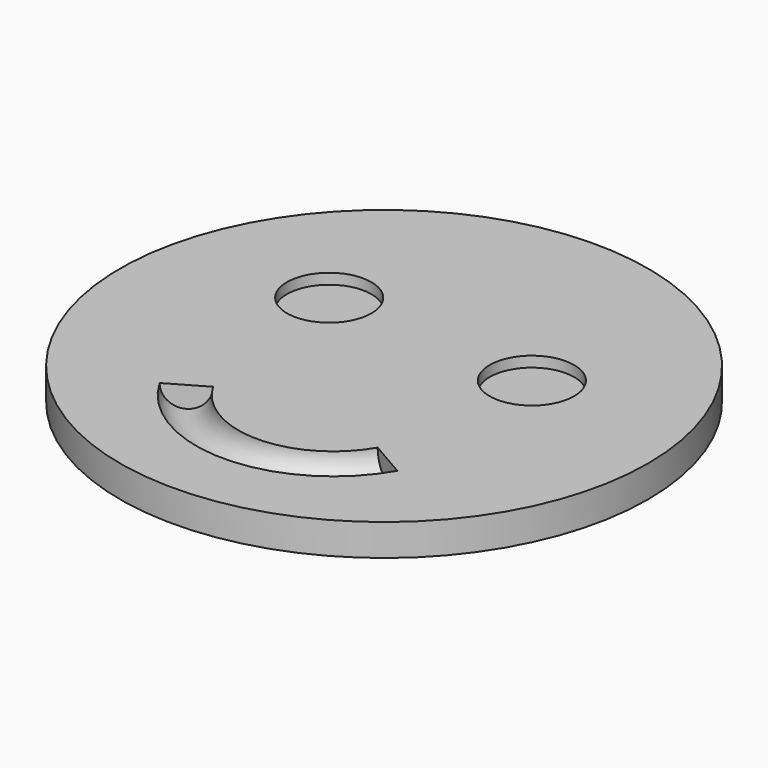
from build123d import *

# Parameters (mm, degrees)
TORUS_R               = 2
TORUS_ANGLE           = 120
TORUS_PLACEMENT_ANGLE = 150
CYLINDER002_R         = 4
CYLINDER002_DEPTH     = 4
CYLINDER001_R         = 4
CYLINDER001_DEPTH     = 4
CYLINDER_R            = 25
CYLINDER_DEPTH        = 3


with BuildPart() as torus:
    # Torus → Torus (revolve)
    with BuildSketch(Plane.XZ):
        with Locations((11, 0)):
            Circle(TORUS_R)
    revolve(axis=Axis((0, 0, 0), (0, 0, 1)), revolution_arc=TORUS_ANGLE)


with BuildPart() as torus_1:
    # Torus placement: moved
    add(torus.part.moved(Location((0, -6, 5))).rotate(Axis((0, -6, 5), (0, 0, -1)), TORUS_PLACEMENT_ANGLE))


with BuildPart() as cilindre002:
    # Cylinder002 → Cylinder002 (new body)
    with BuildSketch(Plane(origin=(10, 5, 2), x_dir=(1, 0, 0), z_dir=(0, 0, 1))):
        Circle(CYLINDER002_R)
    extrude(amount=CYLINDER002_DEPTH)


with BuildPart() as cilindre001:
    # Cylinder001 → Cylinder001 (new body)
    with BuildSketch(Plane(origin=(-10, 6, 2), x_dir=(1, 0, 0), z_dir=(0, 0, 1))):
        Circle(CYLINDER001_R)
    extrude(amount=CYLINDER001_DEPTH)


with BuildPart() as cut002:
    # Cylinder → Cylinder (new body)
    with BuildSketch(Plane.XY):
        Circle(CYLINDER_R)
    extrude(amount=CYLINDER_DEPTH)

    # Cut: cut Cilindre001
    add(cilindre001.part, mode=Mode.SUBTRACT)

    # Cut001: cut Cilindre002
    add(cilindre002.part, mode=Mode.SUBTRACT)


with BuildPart() as cut002_1:
    # Cut001 placement: moved
    add(cut002.part.moved(Location((0, 0, 2))))

    # Cut002: cut Torus
    add(torus_1.part, mode=Mode.SUBTRACT)


solid = cut002_1.part
